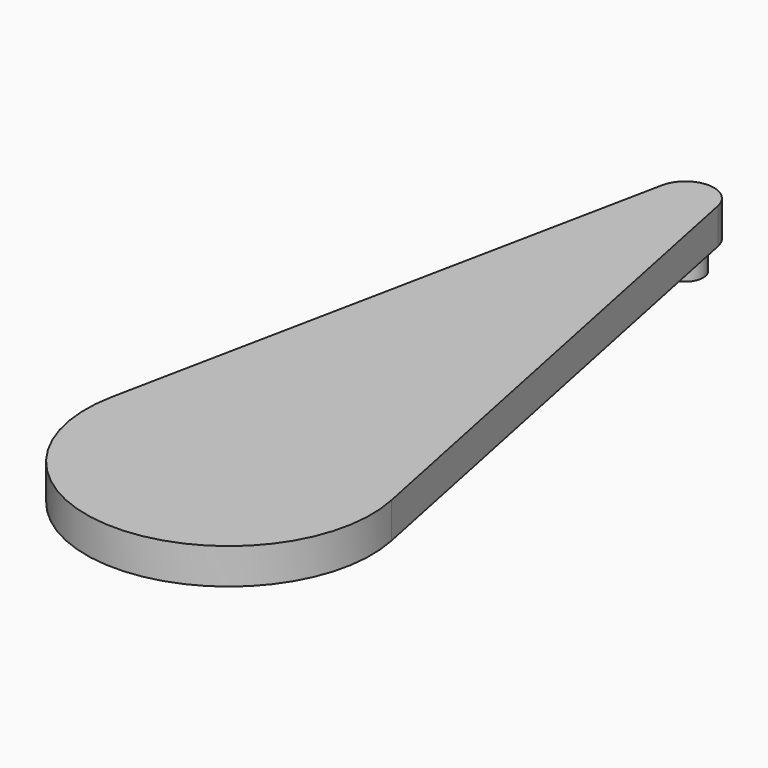
from build123d import *

# Parameters (mm, degrees)
F0_R     = 1.5875
F1_DEPTH = 3.175
F2_DEPTH = 2.54


with BuildPart() as f1:
    # F0 (on Top) → F1 (new body)
    with BuildSketch(Plane.XY):
        with BuildLine():
            Line((12.443408, -48.26), (2.488682, 0.508))
            ThreePointArc((2.488682, 0.508), (0, 2.54), (-2.488682, 0.508))
            Line((-2.488682, 0.508), (-12.443408, -48.26))
            ThreePointArc((-12.443408, -48.26), (0, -63.5), (12.443408, -48.26))
        make_face()
        Circle(F0_R, mode=Mode.SUBTRACT)
        Circle(F0_R)
    extrude(amount=F1_DEPTH)

    # F0 (on Top) → F2 (join)
    with BuildSketch(Plane.XY):
        Circle(F0_R)
    extrude(amount=-F2_DEPTH)


solid = f1.part
